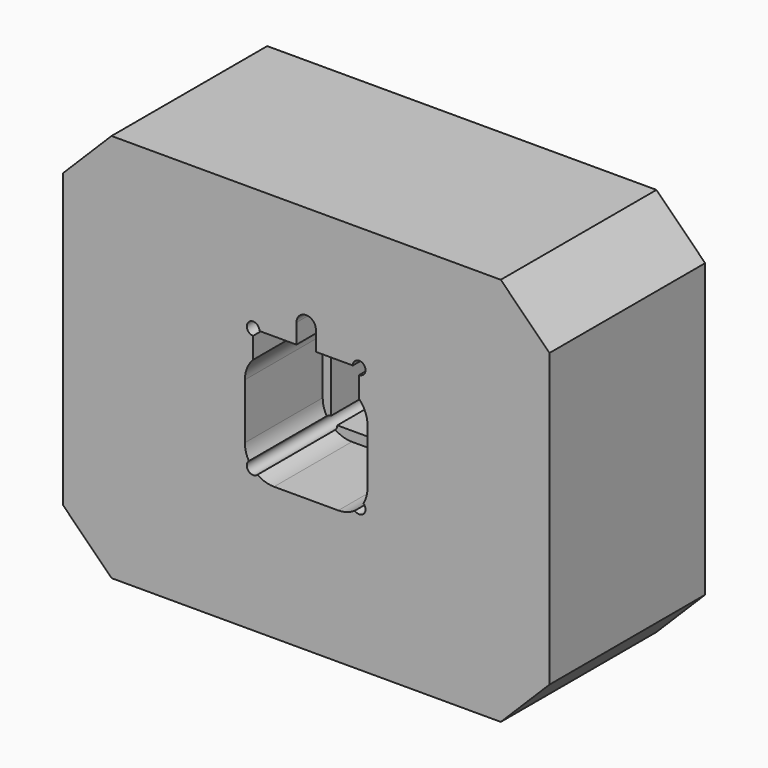
from build123d import *

# Parameters (mm, degrees)
F0_W     = 50
F0_H     = 40
F1_DEPTH = 20
F2_SIZE  = 5
F4_DEPTH = 20
F6_DEPTH = 10


with BuildPart() as f1:
    # F0 (on Front) → F1 (new body)
    with BuildSketch(Plane.XZ):
        Rectangle(F0_W, F0_H)
    extrude(amount=F1_DEPTH)

    # F2
    f2_edges = [f1.edges().sort_by_distance(p)[0] for p in [
        (-25, -10, 20),
        (25, -10, 20),
        (-25, -10, -20),
        (25, -10, -20),
    ]]
    chamfer(f2_edges, length=F2_SIZE)

    # F3 (on face) → F4 (cut)
    with BuildSketch(Plane.XZ.offset(20)):
        with BuildLine():
            Line((-1, 7.3), (-4.8, 7.3))
            ThreePointArc((-4.8, 7.3), (-5.909619, 7.759619), (-5.45, 6.65))
            Line((-5.45, 6.65), (-5.45, -4.65))
            ThreePointArc((-5.45, -4.65), (-5.909619, -5.759619), (-4.8, -5.3))
            Line((-4.8, -5.3), (4.8, -5.3))
            ThreePointArc((4.8, -5.3), (5.909619, -5.759619), (5.45, -4.65))
            Line((5.45, -4.65), (5.45, 6.65))
            ThreePointArc((5.45, 6.65), (5.909619, 7.759619), (4.8, 7.3))
            Line((4.8, 7.3), (1, 7.3))
            Line((1, 7.3), (1, 9.3))
            ThreePointArc((1, 9.3), (0.707107, 10.007107), (0, 10.3))
            ThreePointArc((0, 10.3), (-0.707107, 10.007107), (-1, 9.3))
            Line((-1, 9.3), (-1, 7.3))
        make_face()
    extrude(amount=-F4_DEPTH, mode=Mode.SUBTRACT)

    # F5 (on face) → F6 (cut)
    with BuildSketch(Plane.XZ.offset(20)):
        with BuildLine():
            ThreePointArc((-6.3, -3.3), (-5.42132, -5.42132), (-3.3, -6.3))
            Line((-3.3, -6.3), (3.3, -6.3))
            ThreePointArc((3.3, -6.3), (5.42132, -5.42132), (6.3, -3.3))
            Line((6.3, -3.3), (6.3, 2.39))
            ThreePointArc((6.3, 2.39), (5.42132, 4.51132), (3.3, 5.39))
            Line((3.3, 5.39), (-3.3, 5.39))
            ThreePointArc((-3.3, 5.39), (-5.42132, 4.51132), (-6.3, 2.39))
            Line((-6.3, 2.39), (-6.3, -3.3))
        make_face()
    extrude(amount=-F6_DEPTH, mode=Mode.SUBTRACT)


solid = f1.part
